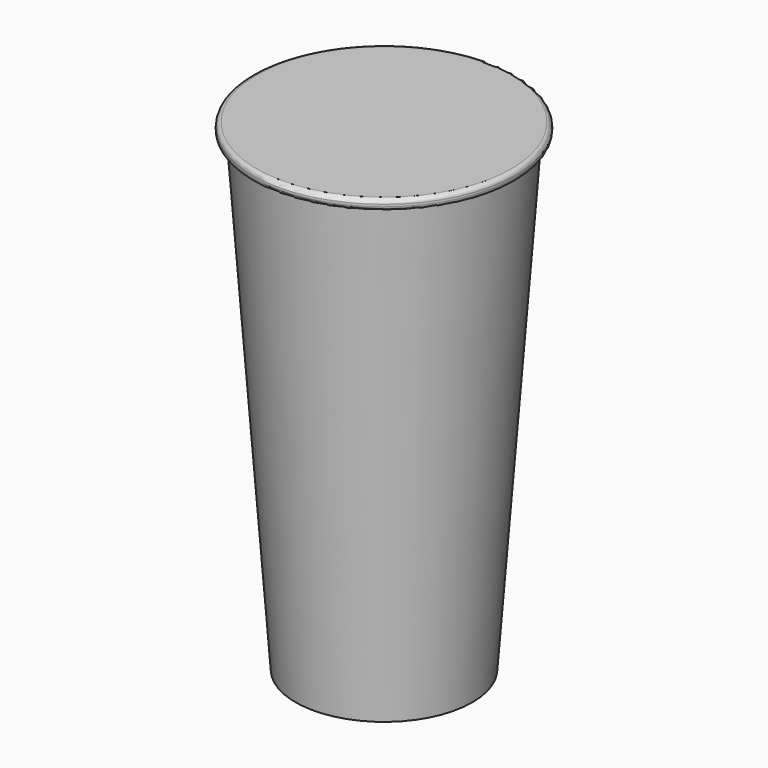
from build123d import *


with BuildPart() as f1:
    # F0 (on Front) → F1 (revolve)
    with BuildSketch(Plane.XZ):
        with BuildLine():
            Line((14.743979, -50.497159), (26.643979, 111.002841))
            Line((26.643979, 111.002841), (28.004751, 111.002841))
            ThreePointArc((28.004751, 111.002841), (29.022439, 111.424381), (29.443979, 112.442069))
            Line((29.443979, 112.442069), (29.443979, 113.163613))
            ThreePointArc((29.443979, 113.163613), (29.022439, 114.181301), (28.004751, 114.602841))
            Line((28.004751, 114.602841), (-15.556021, 114.602841))
            Line((-15.556021, 114.602841), (-15.556021, -50.497159))
            Line((-15.556021, -50.497159), (14.743979, -50.497159))
        make_face()
    revolve(axis=Axis((-15.556021, 0, 32.052841), (0, 0, -1)))


solid = f1.part
